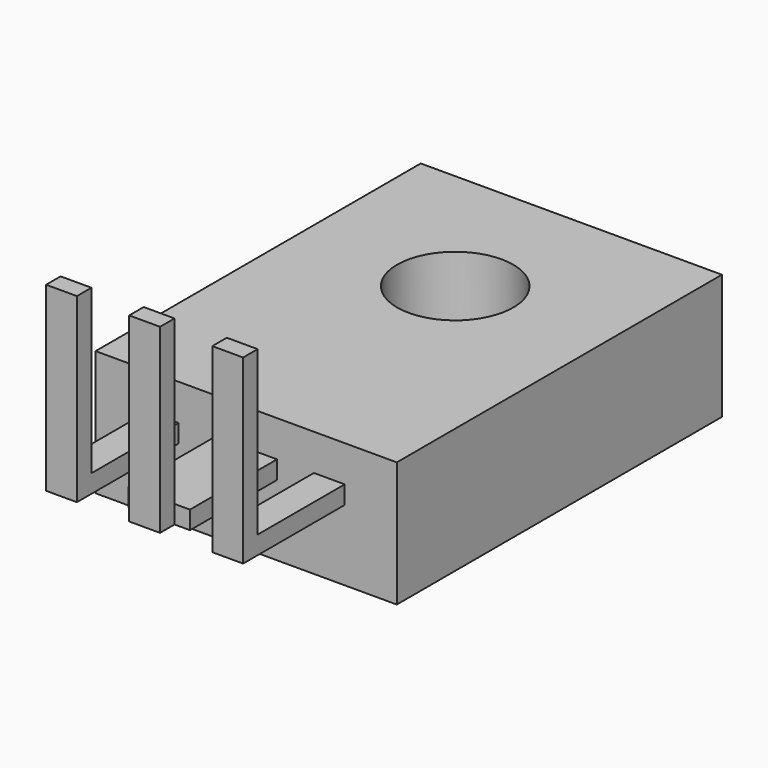
from build123d import *

# Parameters (mm, degrees)
F0_W     = 8.3
F0_H     = 11.2
F1_DEPTH = 3.45
F3_D     = 3.2
F4_W     = 0.85
F4_H     = 0.5
F4_W_2   = 1.7
F5_DEPTH = 3.5
F6_W     = 0.85
F6_H     = 0.5
F7_DEPTH = 5
F8_W     = 0.425
F8_H     = 0.5
F9_DEPTH = 0.5


with BuildPart() as f1:
    # F0 (on Top) → F1 (new body)
    with BuildSketch(Plane.XY):
        Rectangle(F0_W, F0_H)
    extrude(amount=F1_DEPTH)

    # F3 (through all)
    with Locations(Plane.XY.offset(3.45)):
        with Locations((0, 1.6)):
            Hole(F3_D / 2)


with BuildPart() as f5:
    # F4 (on face) → F5 (new body)
    with BuildSketch(Plane.XZ.offset(5.6)):
        with Locations((-2.29, 2.2)):
            Rectangle(F4_W, F4_H)
        with Locations((0, 2.2)):
            Rectangle(F4_W_2, F4_H)
        with Locations((2.29, 2.2)):
            Rectangle(F4_W, F4_H)
    extrude(amount=F5_DEPTH)

    # F6 (on face) → F7 (join)
    with BuildSketch(Plane(origin=(0, 0, 1.95), x_dir=(1, 0, 0), z_dir=(0, 0, -1))):
        with Locations((2.29, 8.85)):
            Rectangle(F6_W, F6_H)
        with Locations((0, 8.85)):
            Rectangle(F6_W, F6_H)
        with Locations((-2.29, 8.85)):
            Rectangle(F6_W, F6_H)
    extrude(amount=-F7_DEPTH)

    # F8 (on face) → F9 (cut)
    with BuildSketch(Plane.XZ.offset(9.1)):
        with Locations((-0.6375, 2.2)):
            Rectangle(F8_W, F8_H)
        with Locations((0.6375, 2.2)):
            Rectangle(F8_W, F8_H)
    extrude(amount=-F9_DEPTH, mode=Mode.SUBTRACT)


solid = Compound([f1.part, f5.part])
